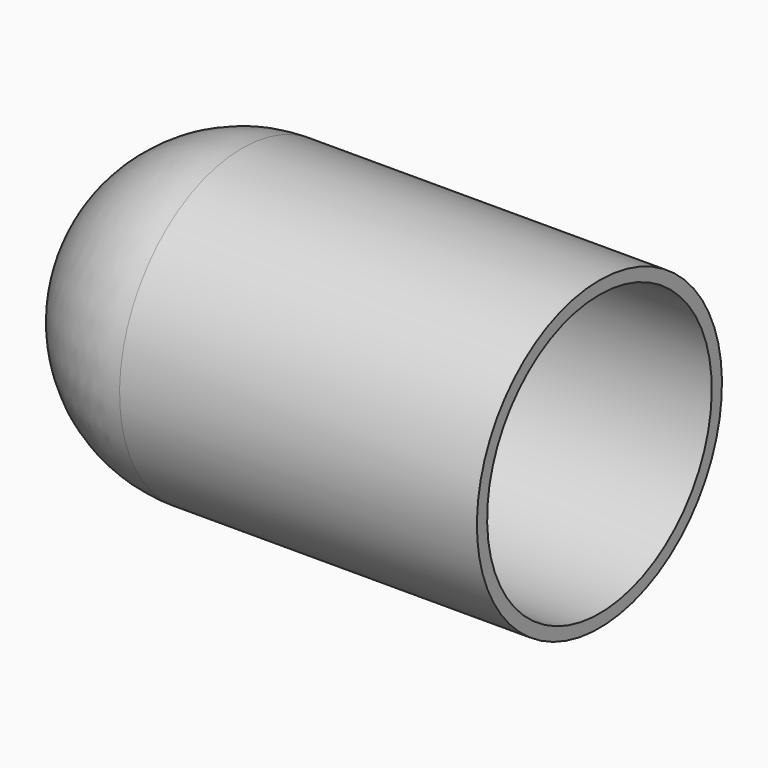
from build123d import *

# Parameters (mm, degrees)
F2_T = -2.5


with BuildPart() as f1:
    # F0 (on Front) → F1 (revolve)
    with BuildSketch(Plane.XZ):
        with BuildLine():
            Line((70, 30), (0, 30))
            ThreePointArc((0, 30), (-21.213203, 21.213203), (-30, 0))
            Line((-30, 0), (70, 0))
            Line((70, 0), (70, 30))
        make_face()
    revolve(axis=Axis((20, 0, 0), (1, 0, 0)))

    # F2
    f2_openings = [f1.faces().sort_by_distance(p)[0] for p in [
        (70, 0, 0),
    ]]
    offset(amount=F2_T, openings=f2_openings)


solid = f1.part
